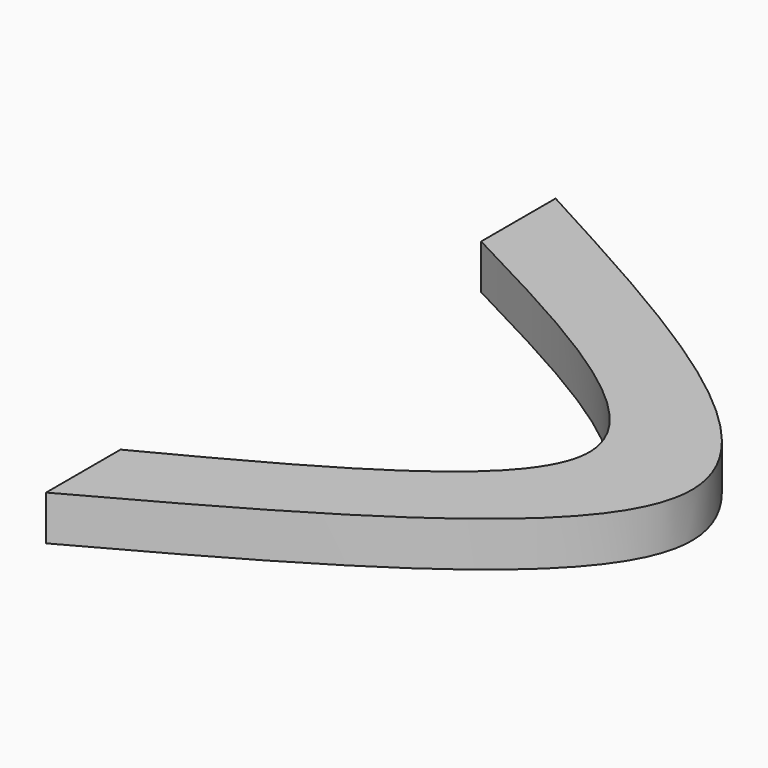
from build123d import *

# Parameters (mm, degrees)
F1_DEPTH = 2.54


with BuildPart() as f1:
    # F0 (on Top) → F1 (new body)
    with BuildSketch(Plane.XY):
        with BuildLine():
            add(Edge.make_bspline(
                [(16.388127, 0), (16.388127, 4.2672), (8.194064, 8.5344), (0, 12.8016)],
                knots=[20.795473, 20.795473, 20.795473, 20.795473, 41.590945, 41.590945, 41.590945, 41.590945], degree=3))
            Line((16.388127, 0), (22.204727, 0))
            add(Edge.make_bspline(
                [(22.204727, 0), (22.204727, 6.028267), (11.102364, 12.056533), (0, 18.0848)],
                knots=[28.637561, 28.637561, 28.637561, 28.637561, 57.275122, 57.275122, 57.275122, 57.275122], degree=3))
            Line((0, 18.0848), (0, 12.8016))
        make_face()
        with BuildLine():
            Line((22.204727, 0), (16.388127, 0))
            add(Edge.make_bspline(
                [(0, -12.8016), (8.194064, -8.5344), (16.388127, -4.2672), (16.388127, 0)],
                knots=[0, 0, 0, 0, 20.795473, 20.795473, 20.795473, 20.795473], degree=3))
            Line((0, -12.8016), (0, -18.0848))
            add(Edge.make_bspline(
                [(0, -18.0848), (11.102364, -12.056533), (22.204727, -6.028267), (22.204727, 0)],
                knots=[0, 0, 0, 0, 28.637561, 28.637561, 28.637561, 28.637561], degree=3))
        make_face()
    extrude(amount=F1_DEPTH)


solid = f1.part
